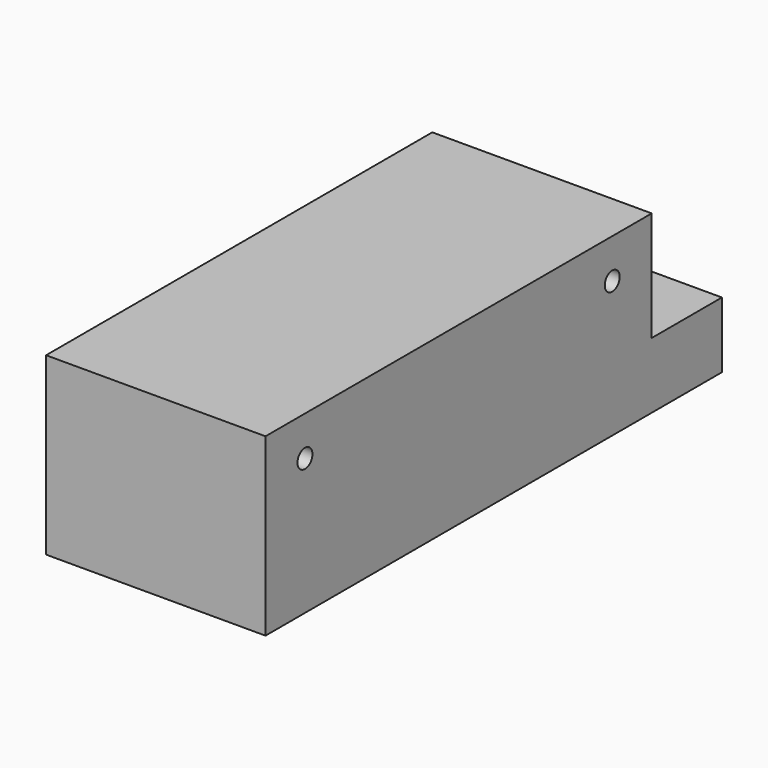
from build123d import *

# Parameters (mm, degrees)
F0_W     = 31.75
F0_H     = 82.55
F1_DEPTH = 25.4
F2_W     = 31.75
F2_H     = 15.875
F3_DEPTH = 12.7
F5_D     = 3.7973
F5_DEPTH = 12.7
F5_TIP   = 1.1408240143
F7_D     = 2.7051
F7_DEPTH = 9.525
F7_TIP   = 0.8126940303


with BuildPart() as f1:
    # F0 (on Top) → F1 (new body)
    with BuildSketch(Plane.XY):
        with Locations((15.875, -41.275)):
            Rectangle(F0_W, F0_H)
    extrude(amount=F1_DEPTH)

    # F2 (on face) → F3 (cut)
    with BuildSketch(Plane(origin=(0, 0, 0), x_dir=(-1, 0, 0), z_dir=(0, 1, 0))):
        with Locations((-15.875, 17.4625)):
            Rectangle(F2_W, F2_H)
    extrude(amount=-F3_DEPTH, mode=Mode.SUBTRACT)

    # F5
    with Locations(Plane(origin=(0, 0, 0), x_dir=(-1, 0, 0), z_dir=(0, 1, 0))):
        with Locations((-25.4, 4.7752), (-6.35, 4.7752)):
            Hole(F5_D / 2, depth=F5_DEPTH)
            with Locations((0, 0, -(F5_DEPTH + F5_TIP / 2))):  # 118° drill point
                Cone(0, F5_D / 2, F5_TIP, mode=Mode.SUBTRACT)

    # F7
    with Locations(Plane.YZ.offset(31.75)):
        with Locations((-19.8374, 19.685), (-75.4126, 19.685)):
            Hole(F7_D / 2, depth=F7_DEPTH)
            with Locations((0, 0, -(F7_DEPTH + F7_TIP / 2))):  # 118° drill point
                Cone(0, F7_D / 2, F7_TIP, mode=Mode.SUBTRACT)


solid = f1.part
